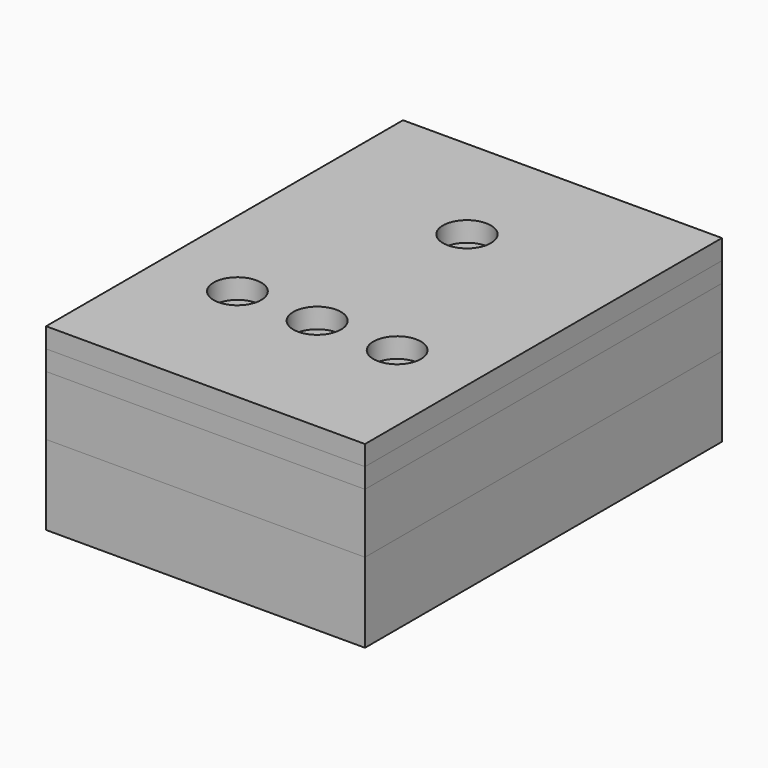
from build123d import *

# Parameters (mm, degrees)
SKETCH_W      = 80.004261
SKETCH_H      = 111.923284
SKETCH_R      = 6.009136
SKETCH_R_2    = 5.989882
SKETCH_R_3    = 5.956767
SKETCH_R_4    = 5.958532
PAD_DEPTH     = 10
SKETCH001_W   = 80.004261
SKETCH001_H   = 111.923284
SKETCH001_W_2 = 67.24239
SKETCH001_H_2 = 98.745722
PAD001_DEPTH  = 35
SKETCH003_W   = 80.004261
SKETCH003_H   = 111.923284
SKETCH003_W_2 = 67.24239
SKETCH003_H_2 = 98.745722
PAD003_DEPTH  = 15
SKETCH002_W   = 80.004261
SKETCH002_H   = 111.923284
PAD002_DEPTH  = 5


with BuildPart() as body:
    # Sketch → Pad (new body)
    with BuildSketch(Plane.XY):
        with Locations((-0.007769, -26.001157)):
            Rectangle(SKETCH_W, SKETCH_H)
        Circle(SKETCH_R, mode=Mode.SUBTRACT)
        with Locations((0, -46.969181)):
            Circle(SKETCH_R_2, mode=Mode.SUBTRACT)
        with Locations((20.065542, -46.969181)):
            Circle(SKETCH_R_3, mode=Mode.SUBTRACT)
        with Locations((-20.006693, -46.969181)):
            Circle(SKETCH_R_4, mode=Mode.SUBTRACT)
    extrude(amount=PAD_DEPTH)


with BuildPart() as body001:
    # Sketch001 → Pad001 (new body)
    with BuildSketch(Plane.XY):
        with Locations((-0.007769, -26.001157)):
            Rectangle(SKETCH001_W, SKETCH001_H)
        with Locations((0.619291, -26.032123)):
            Rectangle(SKETCH001_W_2, SKETCH001_H_2, mode=Mode.SUBTRACT)
    extrude(amount=-PAD001_DEPTH)


with BuildPart() as body002:
    # Sketch003 → Pad003 (new body)
    with BuildSketch(Plane.XY):
        with Locations((-0.007769, -26.001157)):
            Rectangle(SKETCH003_W, SKETCH003_H)
        with Locations((0.619291, -26.032123)):
            Rectangle(SKETCH003_W_2, SKETCH003_H_2, mode=Mode.SUBTRACT)
    extrude(amount=-PAD003_DEPTH)


with BuildPart() as body003:
    # Sketch002 → Pad002 (new body)
    with BuildSketch(Plane.XY):
        with Locations((-0.007769, -26.001157)):
            Rectangle(SKETCH002_W, SKETCH002_H)
    extrude(amount=PAD002_DEPTH)


solid = Compound([body.part, body001.part, body002.part, body003.part])
